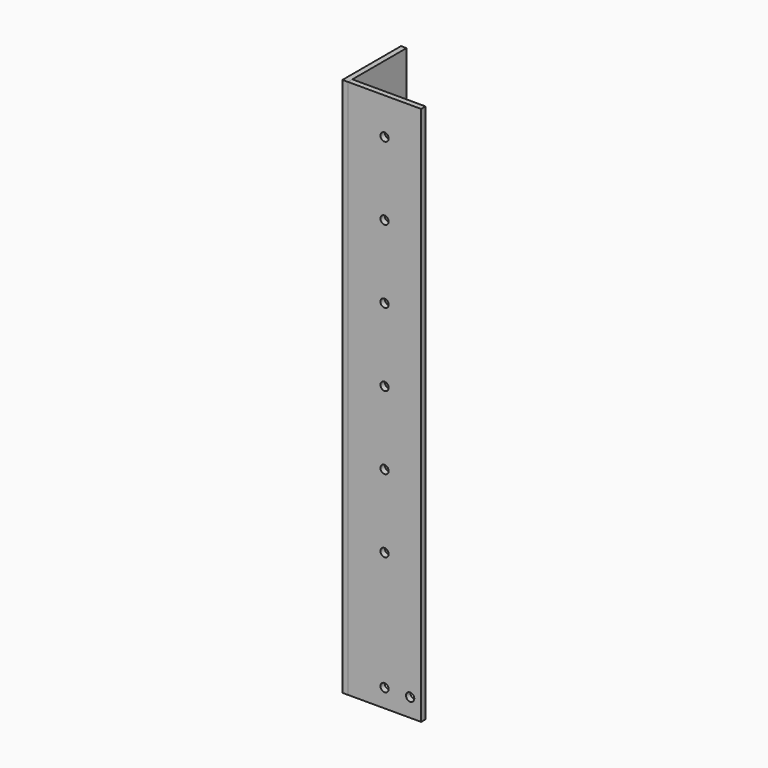
from build123d import *

# Parameters (mm, degrees)
CYLINDER003_R     = 2.25
CYLINDER003_DEPTH = 20
CYLINDER007_R     = 2.25
CYLINDER007_DEPTH = 20
CYLINDER_R        = 2.25
CYLINDER_DEPTH    = 20
ARRAY_Z_COUNT     = 6
ARRAY_Z_PITCH     = 40
BOX_W             = 40
BOX_H             = 3
BOX_DEPTH         = 295
ARRAY003_COUNT    = 2
ARRAY003_ANGLE    = 90


with BuildPart() as cylinder003:
    # Cylinder003 → Cylinder003 (new body)
    with BuildSketch(Plane(origin=(20, 10, 10), x_dir=(1, 0, 0), z_dir=(0, -1, 0))):
        Circle(CYLINDER003_R)
    extrude(amount=CYLINDER003_DEPTH)


with BuildPart() as cylinder007:
    # Cylinder007 → Cylinder007 (new body)
    with BuildSketch(Plane(origin=(34, 10, 10), x_dir=(1, 0, 0), z_dir=(0, -1, 0))):
        Circle(CYLINDER007_R)
    extrude(amount=CYLINDER007_DEPTH)


with BuildPart() as fusion001:
    # Cylinder → Cylinder (new body)
    with BuildSketch(Plane(origin=(20, 10, 0), x_dir=(1, 0, 0), z_dir=(0, -1, 0))):
        Circle(CYLINDER_R)
    extrude(amount=CYLINDER_DEPTH)

    # Array Z: Fusion001 ×6


with BuildPart() as fusion001_1:
    add(fusion001.part)
    with Locations(*[(0, 0, i * ARRAY_Z_PITCH) for i in range(1, ARRAY_Z_COUNT)]):
        add(fusion001.part)


with BuildPart() as fusion001_2:
    # Array placement: moved
    add(fusion001_1.part.moved(Location((0, 0, 75))))

    # Fusion001: union Cylinder003, Cylinder007
    add(cylinder003.part)
    add(cylinder007.part)


with BuildPart() as array003:
    # Box → Box (new body)
    with BuildSketch(Plane.XY):
        with Locations((20, 1.5)):
            Rectangle(BOX_W, BOX_H)
    extrude(amount=BOX_DEPTH)

    # Cut: cut Fusion001
    add(fusion001_2.part, mode=Mode.SUBTRACT)


with BuildPart() as array003_copy1:
    # Array003: instance of Array003
    add(array003.part.rotate(Axis((0, 0, 0), (0, 0, 1)), 1 * ARRAY003_ANGLE / (ARRAY003_COUNT - 1)))


solid = Compound([array003.part, array003_copy1.part])
